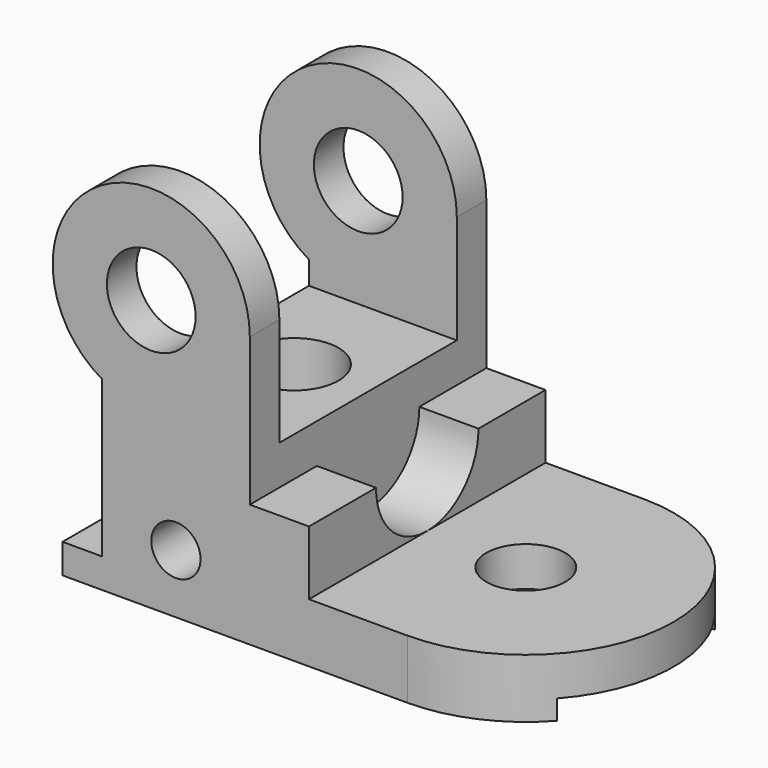
from build123d import *

# Parameters (mm, degrees)
SKETCH_R        = 9
PAD_DEPTH       = 30
SKETCH001_W     = 55.131706
SKETCH001_H     = 45
POCKET_DEPTH    = 40.001
SKETCH002_R     = 5
POCKET001_DEPTH = 60.001
SKETCH003_R     = 9
POCKET002_DEPTH = 33.001
PAD001_DEPTH    = 12
SKETCH005_W     = 9.754251
SKETCH005_H     = 40
POCKET003_DEPTH = 100.001
SKETCH006_R     = 13
POCKET004_DEPTH = 12
SKETCH007_R     = 8
POCKET005_DEPTH = 12.001


with BuildPart() as part:
    # Sketch → Pad (new body, symmetric)
    with BuildSketch(Plane.XZ):
        with BuildLine():
            Line((0, 0), (70, 0))
            Line((70, 0), (70, 12))
            Line((70, 12), (50, 12))
            Line((50, 12), (50, 25))
            Line((50, 25), (38, 25))
            Line((38, 25), (38, 55))
            ThreePointArc((38, 55), (8, 72.320508), (8, 37.679492))
            Line((8, 6), (8, 37.679492))
            Line((0, 6), (8, 6))
            Line((0, 0), (0, 6))
        make_face()
        with Locations((18, 55)):
            Circle(SKETCH_R, mode=Mode.SUBTRACT)
    extrude(amount=PAD_DEPTH, both=True)

    # Sketch001 → Pocket (cut, through all)
    with BuildSketch(Plane(origin=(38, 0, 0), x_dir=(0, 0, 1), z_dir=(1, 0, 0))):
        with Locations((60.565853, 0)):
            Rectangle(SKETCH001_W, SKETCH001_H)
    extrude(amount=-POCKET_DEPTH, mode=Mode.SUBTRACT)

    # Sketch002 → Pocket001 (cut, through all)
    with BuildSketch(Plane.XZ.offset(30)):
        with Locations((23, 12)):
            Circle(SKETCH002_R)
    extrude(amount=-POCKET001_DEPTH, mode=Mode.SUBTRACT)

    # Sketch003 → Pocket002 (cut, through all)
    with BuildSketch(Plane(origin=(0, 0, 33), x_dir=(-1, 0, 0), z_dir=(0, 0, 1))):
        with Locations((-23, 0)):
            Circle(SKETCH003_R)
    extrude(amount=-POCKET002_DEPTH, mode=Mode.SUBTRACT)

    # Sketch004 → Pad001 (new body)
    with BuildSketch(Plane(origin=(0, 0, 12), x_dir=(-1, 0, 0), z_dir=(0, 0, 1))):
        with BuildLine():
            ThreePointArc((-70, 30), (-100, 0), (-70, -30))
            Line((-70, 30), (-70, -30))
        make_face()
    extrude(amount=-PAD001_DEPTH)

    # Sketch005 → Pocket003 (cut, through all)
    with BuildSketch(Plane(origin=(0, 0, 0), x_dir=(0, 0, -1), z_dir=(-1, 0, 0))):
        with Locations((0.877126, 0)):
            Rectangle(SKETCH005_W, SKETCH005_H)
    extrude(amount=-POCKET003_DEPTH, mode=Mode.SUBTRACT)

    # Sketch006 → Pocket004 (cut)
    with BuildSketch(Plane(origin=(50, 0, 0), x_dir=(0, 0, 1), z_dir=(1, 0, 0))):
        with Locations((25, 0)):
            Circle(SKETCH006_R)
    extrude(amount=-POCKET004_DEPTH, mode=Mode.SUBTRACT)

    # Sketch007 → Pocket005 (cut, through all)
    with BuildSketch(Plane(origin=(0, 0, 12), x_dir=(-1, 0, 0), z_dir=(0, 0, 1))):
        with Locations((-70, 0)):
            Circle(SKETCH007_R)
    extrude(amount=-POCKET005_DEPTH, mode=Mode.SUBTRACT)


solid = part.part
